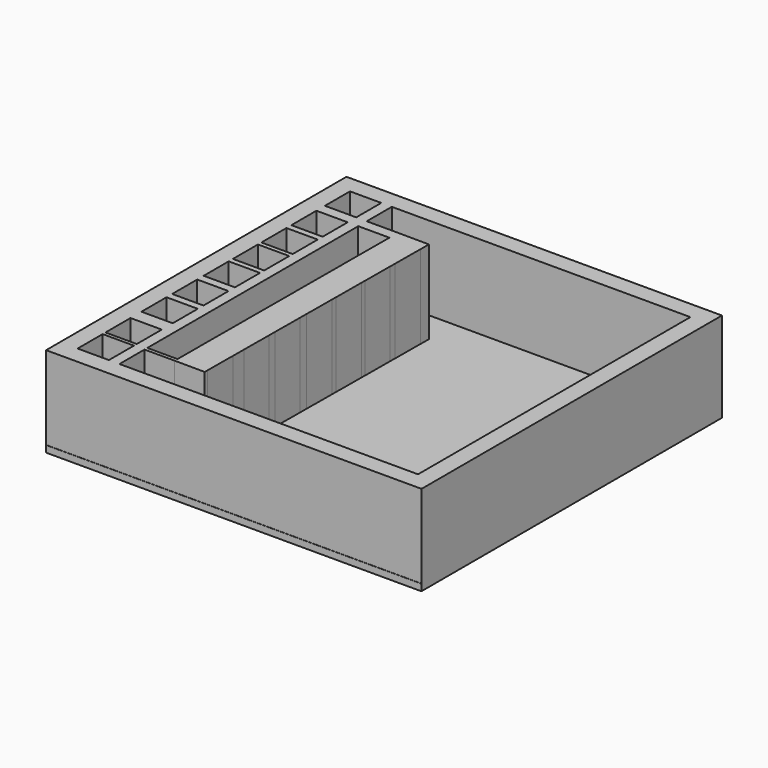
from build123d import *

# Parameters (mm, degrees)
F0_W     = 114.3
F0_H     = 114.3
F0_W_2   = 103.632
F0_H_2   = 103.632
F1_DEPTH = 27.432
F2_W     = 113.9637678862
F2_H     = 114.4161000848
F3_DEPTH = 2.032
F4_W     = 9.525
F4_H     = 3.2435940627
F4_H_2   = 1.884625411
F4_H_3   = 1.314143768
F4_H_4   = 1.599385288
F4_H_5   = 2.4551072869
F4_H_6   = 2.1698671639
F4_H_7   = 4.1665482581
F4_H_8   = 1.0737287614
F5_DEPTH = 25.4
F6_DEPTH = 25.4


with BuildPart() as f1:
    # F0 (on Top) → F1 (new body)
    with BuildSketch(Plane.XY):
        Rectangle(F0_W, F0_H)
        Rectangle(F0_W_2, F0_H_2, mode=Mode.SUBTRACT)
    extrude(amount=F1_DEPTH)

    # F2 (on Top) → F3 (join)
    with BuildSketch(Plane.XY):
        Rectangle(F2_W, F2_H)
    extrude(amount=F3_DEPTH)

    # F4 (on face) → F5 (join)
    with BuildSketch(Plane.XY.offset(2.032)):
        Polygon((-39.0779674053, 51.816), (-42.291, 51.816), (-42.291, 42.291), (-42.291, 39.0474059373), (-42.291, 29.5224059373), (-42.291, 27.6377805263), (-42.291, 18.1127805263), (-42.291, 16.7986367583), (-42.291, 7.2736367583), (-42.291, 5.6742514703), (-42.291, -3.8507485297), (-42.291, -6.3058558166), (-42.291, -15.8308558166), (-42.291, -18.0007229805), (-42.291, -27.5257229805), (-42.291, -31.6922712386), (-42.291, -41.2172712386), (-42.291, -42.291), (-42.291, -51.816), (-39.0779674053, -51.816), (-39.0779674053, -42.291), (-39.0779674053, -41.2172712386), (-39.0779674053, -31.6922712386), (-39.0779674053, -27.5257229805), (-39.0779674053, -18.0007229805), (-39.0779674053, -15.8308558166), (-39.0779674053, -6.3058558166), (-39.0779674053, -3.8507485297), (-39.0779674053, 5.6742514703), (-39.0779674053, 7.2736367583), (-39.0779674053, 16.7986367583), (-39.0779674053, 18.1127805263), (-39.0779674053, 27.6377805263), (-39.0779674053, 29.5224059373), (-39.0779674053, 39.0474059373), (-39.0779674053, 42.291), align=None)
        with Locations((-47.0535, 40.6692029687)):
            Rectangle(F4_W, F4_H)
        Polygon((-29.5873772812, 42.291), (-39.0779674053, 42.291), (-39.0779674053, 39.0474059373), (-29.5990950418, 39.0474059373), align=None)
        Polygon((-20.097034873, 42.2224297603), (-29.5873772812, 42.291), (-29.5990950418, 39.0474059373), (-20.1204700883, 38.9789203593), align=None)
        with Locations((-47.0535, 28.5800932318)):
            Rectangle(F4_W, F4_H_2)
        Polygon((-20.1204700883, 38.9789203593), (-29.5990950418, 39.0474059373), (-29.6335049177, 29.5224059373), (-20.189288942, 29.4541689733), align=None)
        Polygon((-20.189288942, 29.4541689733), (-29.6335049177, 29.5224059373), (-29.640313288, 27.6377805263), (-20.2029055048, 27.5695927533), align=None)
        with Locations((-47.0535, 17.4557086423)):
            Rectangle(F4_W, F4_H_3)
        Polygon((-20.2029055048, 27.5695927533), (-29.640313288, 27.6377805263), (-29.6747231639, 18.1127805263), (-20.2717243585, 18.0448413672), align=None)
        Polygon((-20.2717243585, 18.0448413672), (-29.6747231639, 18.1127805263), (-29.6794706205, 16.7986367583), (-20.2812191477, 16.7307319), align=None)
        with Locations((-47.0535, 6.4739441143)):
            Rectangle(F4_W, F4_H_4)
        Polygon((-20.2812191477, 16.7307319), (-29.6794706205, 16.7986367583), (-29.7138804964, 7.2736367583), (-20.3500380015, 7.205980514), align=None)
        Polygon((-20.3500380015, 7.205980514), (-29.7138804964, 7.2736367583), (-29.7196584123, 5.6742514703), (-20.3615936825, 5.6066369719), align=None)
        with Locations((-47.0535, -5.0783021731)):
            Rectangle(F4_W, F4_H_5)
        Polygon((-20.3615936825, 5.6066369719), (-29.7196584123, 5.6742514703), (-29.7540682883, -3.8507485297), (-20.4304125362, -3.9181144141), align=None)
        Polygon((-20.4304125362, -3.9181144141), (-29.7540682883, -3.8507485297), (-29.762937573, -6.3058558166), (-20.4481508742, -6.3731576198), align=None)
        with Locations((-47.0535, -16.9157893986)):
            Rectangle(F4_W, F4_H_6)
        Polygon((-20.4481508742, -6.3731576198), (-29.762937573, -6.3058558166), (-29.7973474489, -15.8308558166), (-20.5169697279, -15.8979090058), align=None)
        Polygon((-20.5169697279, -15.8979090058), (-29.7973474489, -15.8308558166), (-29.8051862794, -18.0007229805), (-20.5326471842, -18.0677195336), align=None)
        with Locations((-47.0535, -29.6089971095)):
            Rectangle(F4_W, F4_H_7)
        Polygon((-20.5326471842, -18.0677195336), (-29.8051862794, -18.0007229805), (-29.8395961553, -27.5257229805), (-20.6014660379, -27.5924709196), align=None)
        Polygon((-20.6014660379, -27.5924709196), (-29.8395961553, -27.5257229805), (-29.8546481667, -31.6922712386), (-20.6315696678, -31.7589104257), align=None)
        with Locations((-47.0535, -41.7541356193)):
            Rectangle(F4_W, F4_H_8)
        Polygon((-29.8890580426, -41.2172712386), (-39.0779674053, -41.2172712386), (-39.0779674053, -42.291), (-29.8929369795, -42.291), align=None)
        Polygon((-20.6315696678, -31.7589104257), (-29.8546481667, -31.6922712386), (-29.8890580426, -41.2172712386), (-20.7003885216, -41.2836618117), align=None)
        Polygon((-20.7003885216, -41.2836618117), (-29.8890580426, -41.2172712386), (-29.8929369795, -42.291), (-20.708146294, -42.3573625475), align=None)
    extrude(amount=F5_DEPTH)

    # F4 (on face) → F6 (join)
    with BuildSketch(Plane.XY.offset(2.032)):
        Polygon((-39.0779674053, 51.816), (-42.291, 51.816), (-42.291, 42.291), (-42.291, 39.0474059373), (-42.291, 29.5224059373), (-42.291, 27.6377805263), (-42.291, 18.1127805263), (-42.291, 16.7986367583), (-42.291, 7.2736367583), (-42.291, 5.6742514703), (-42.291, -3.8507485297), (-42.291, -6.3058558166), (-42.291, -15.8308558166), (-42.291, -18.0007229805), (-42.291, -27.5257229805), (-42.291, -31.6922712386), (-42.291, -41.2172712386), (-42.291, -42.291), (-42.291, -51.816), (-39.0779674053, -51.816), (-39.0779674053, -42.291), (-39.0779674053, -41.2172712386), (-39.0779674053, -31.6922712386), (-39.0779674053, -27.5257229805), (-39.0779674053, -18.0007229805), (-39.0779674053, -15.8308558166), (-39.0779674053, -6.3058558166), (-39.0779674053, -3.8507485297), (-39.0779674053, 5.6742514703), (-39.0779674053, 7.2736367583), (-39.0779674053, 16.7986367583), (-39.0779674053, 18.1127805263), (-39.0779674053, 27.6377805263), (-39.0779674053, 29.5224059373), (-39.0779674053, 39.0474059373), (-39.0779674053, 42.291), align=None)
        with Locations((-47.0535, 40.6692029687)):
            Rectangle(F4_W, F4_H)
        Polygon((-29.5873772812, 42.291), (-39.0779674053, 42.291), (-39.0779674053, 39.0474059373), (-29.5990950418, 39.0474059373), align=None)
        Polygon((-20.097034873, 42.2224297603), (-29.5873772812, 42.291), (-29.5990950418, 39.0474059373), (-20.1204700883, 38.9789203593), align=None)
        with Locations((-47.0535, 28.5800932318)):
            Rectangle(F4_W, F4_H_2)
        Polygon((-20.1204700883, 38.9789203593), (-29.5990950418, 39.0474059373), (-29.6335049177, 29.5224059373), (-20.189288942, 29.4541689733), align=None)
        Polygon((-20.189288942, 29.4541689733), (-29.6335049177, 29.5224059373), (-29.640313288, 27.6377805263), (-20.2029055048, 27.5695927533), align=None)
        with Locations((-47.0535, 17.4557086423)):
            Rectangle(F4_W, F4_H_3)
        Polygon((-20.2029055048, 27.5695927533), (-29.640313288, 27.6377805263), (-29.6747231639, 18.1127805263), (-20.2717243585, 18.0448413672), align=None)
        Polygon((-20.2717243585, 18.0448413672), (-29.6747231639, 18.1127805263), (-29.6794706205, 16.7986367583), (-20.2812191477, 16.7307319), align=None)
        with Locations((-47.0535, 6.4739441143)):
            Rectangle(F4_W, F4_H_4)
        Polygon((-20.2812191477, 16.7307319), (-29.6794706205, 16.7986367583), (-29.7138804964, 7.2736367583), (-20.3500380015, 7.205980514), align=None)
        Polygon((-20.3500380015, 7.205980514), (-29.7138804964, 7.2736367583), (-29.7196584123, 5.6742514703), (-20.3615936825, 5.6066369719), align=None)
        with Locations((-47.0535, -5.0783021731)):
            Rectangle(F4_W, F4_H_5)
        Polygon((-20.3615936825, 5.6066369719), (-29.7196584123, 5.6742514703), (-29.7540682883, -3.8507485297), (-20.4304125362, -3.9181144141), align=None)
        Polygon((-20.4304125362, -3.9181144141), (-29.7540682883, -3.8507485297), (-29.762937573, -6.3058558166), (-20.4481508742, -6.3731576198), align=None)
        with Locations((-47.0535, -16.9157893986)):
            Rectangle(F4_W, F4_H_6)
        Polygon((-20.4481508742, -6.3731576198), (-29.762937573, -6.3058558166), (-29.7973474489, -15.8308558166), (-20.5169697279, -15.8979090058), align=None)
        Polygon((-20.5169697279, -15.8979090058), (-29.7973474489, -15.8308558166), (-29.8051862794, -18.0007229805), (-20.5326471842, -18.0677195336), align=None)
        with Locations((-47.0535, -29.6089971095)):
            Rectangle(F4_W, F4_H_7)
        Polygon((-20.5326471842, -18.0677195336), (-29.8051862794, -18.0007229805), (-29.8395961553, -27.5257229805), (-20.6014660379, -27.5924709196), align=None)
        Polygon((-20.6014660379, -27.5924709196), (-29.8395961553, -27.5257229805), (-29.8546481667, -31.6922712386), (-20.6315696678, -31.7589104257), align=None)
        with Locations((-47.0535, -41.7541356193)):
            Rectangle(F4_W, F4_H_8)
        Polygon((-29.8890580426, -41.2172712386), (-39.0779674053, -41.2172712386), (-39.0779674053, -42.291), (-29.8929369795, -42.291), align=None)
        Polygon((-20.6315696678, -31.7589104257), (-29.8546481667, -31.6922712386), (-29.8890580426, -41.2172712386), (-20.7003885216, -41.2836618117), align=None)
        Polygon((-20.7003885216, -41.2836618117), (-29.8890580426, -41.2172712386), (-29.8929369795, -42.291), (-20.708146294, -42.3573625475), align=None)
    extrude(amount=F6_DEPTH)


solid = f1.part
